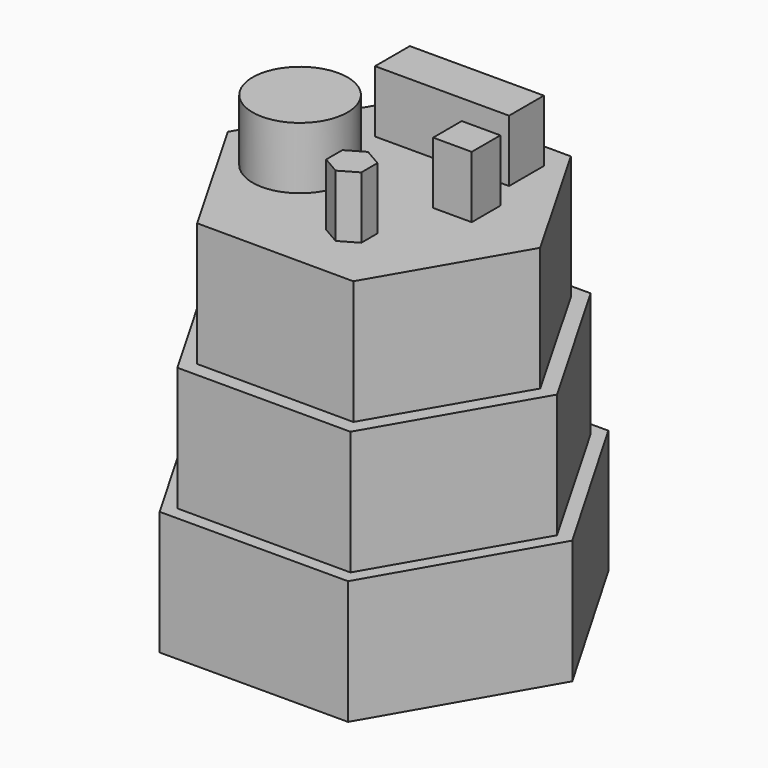
from build123d import *

# Parameters (mm, degrees)
F1_DEPTH = 50
F3_DEPTH = 50
F5_DEPTH = 50
F6_W     = 54.105216
F6_H     = 17.56295
F6_R     = 19.170726
F6_W_2   = 15.580038
F6_H_2   = 14.446942
F7_DEPTH = 25


with BuildPart() as f1:
    # F0 (on Top) → F1 (new body)
    with BuildSketch(Plane.XY):
        Polygon((-38.042759, 65.710473), (-75.928318, -0.090759), (-37.88556, -65.801232), (38.042759, -65.710473), (75.928318, 0.090759), (37.88556, 65.801232), align=None)
    extrude(amount=F1_DEPTH)

    # F2 (on face) → F3 (join)
    with BuildSketch(Plane.XY.offset(50)):
        Polygon((-34.905945, 60.566627), (-69.90521, 0.053879), (-34.999265, -60.512748), (34.905945, -60.566627), (69.90521, -0.053879), (34.999265, 60.512748), align=None)
    extrude(amount=F3_DEPTH)

    # F4 (on face) → F5 (join)
    with BuildSketch(Plane.XY.offset(100)):
        Polygon((-31.442505, 54.790029), (-63.170809, 0.165007), (-31.728305, -54.625022), (31.442505, -54.790029), (63.170809, -0.165007), (31.728305, 54.625022), align=None)
    extrude(amount=F5_DEPTH)

    # F6 (on face) → F7 (join)
    with BuildSketch(Plane.XY.offset(150)):
        with Locations((2.124549, 35.409174)):
            Rectangle(F6_W, F6_H)
        with Locations((-31.160073, -3.399281)):
            Circle(F6_R)
        with Locations((27.619156, 7.223471)):
            Rectangle(F6_W_2, F6_H_2)
        Polygon((2.832735, -24.521915), (2.832735, -32.699312), (9.914569, -36.78801), (16.996402, -32.699312), (16.996402, -24.521915), (9.914569, -20.433216), align=None)
    extrude(amount=F7_DEPTH)


solid = f1.part
